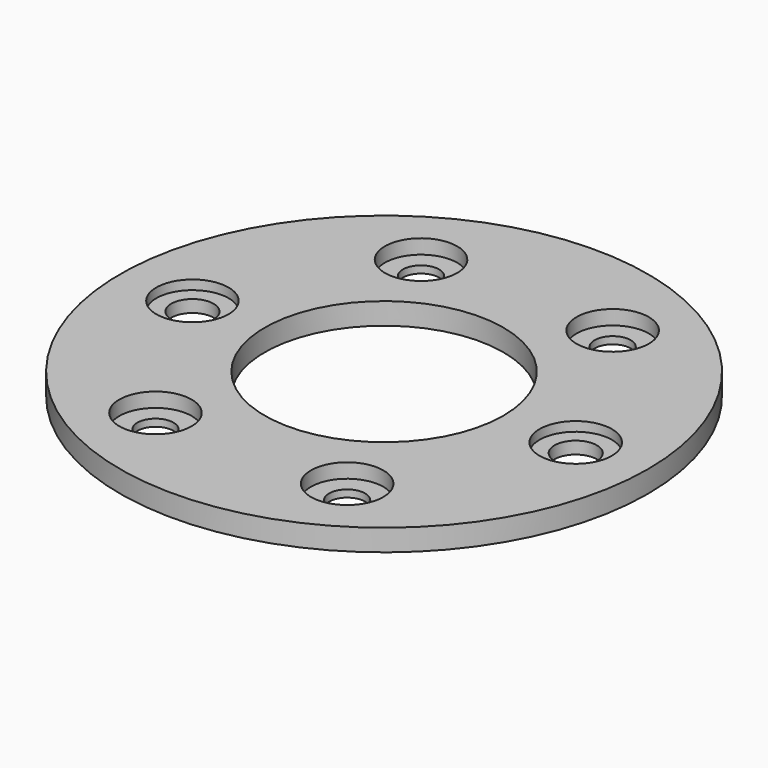
from build123d import *

# Parameters (mm, degrees)
F0_R           = 36.5
F0_R_2         = 16.5
F1_DEPTH       = 3
F2_D           = 5
F2_CBORE_D     = 10
F2_CBORE_DEPTH = 2
F3_D           = 5.85
F3_CBORE_D     = 10
F3_CBORE_DEPTH = 1.3


with BuildPart() as f1:
    # F0 (on Top) → F1 (new body)
    with BuildSketch(Plane.XY):
        Circle(F0_R)
        Circle(F0_R_2, mode=Mode.SUBTRACT)
    extrude(amount=-F1_DEPTH)

    # F2 (through all)
    with Locations(Plane.XY):
        with Locations((-13.25, 22.949673), (13.25, 22.949673), (-13.25, -22.949673), (13.25, -22.949673)):
            CounterBoreHole(F2_D / 2, F2_CBORE_D / 2, F2_CBORE_DEPTH)

    # F3 (through all)
    with Locations(Plane.XY):
        with Locations((-26.5, 0), (26.5, 0)):
            CounterBoreHole(F3_D / 2, F3_CBORE_D / 2, F3_CBORE_DEPTH)


solid = f1.part
